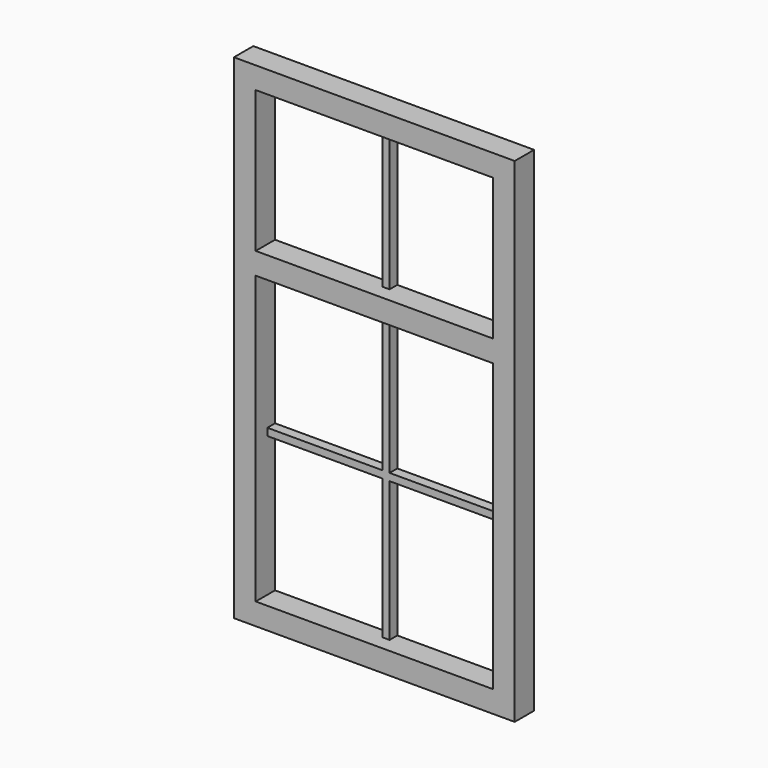
from build123d import *

# Parameters (mm, degrees)
F0_W     = 580
F0_H     = 1020
F0_W_2   = 490
F0_H_2   = 592.5
F0_H_3   = 292.5
F1_DEPTH = 50
F2_W     = 15
F2_H     = 292.5
F3_DEPTH = 20


with BuildPart() as f1:
    # F0 (on Front) → F1 (new body)
    with BuildSketch(Plane.XZ):
        with Locations((290, 510)):
            Rectangle(F0_W, F0_H)
        with Locations((290, 341.25)):
            Rectangle(F0_W_2, F0_H_2, mode=Mode.SUBTRACT)
        with Locations((290, 828.75)):
            Rectangle(F0_W_2, F0_H_3, mode=Mode.SUBTRACT)
    extrude(amount=F1_DEPTH)

    # F2 (on Front) → F3 (join)
    with BuildSketch(Plane.XZ):
        with Locations((290, 828.75)):
            Rectangle(F2_W, F2_H)
        Polygon((297.5, 637.5), (282.5, 637.5), (282.5, 348.75), (45, 348.75), (45, 333.75), (282.5, 333.75), (282.5, 45), (297.5, 45), (297.5, 333.75), (535, 333.75), (535, 348.75), (297.5, 348.75), align=None)
    extrude(amount=F3_DEPTH)


solid = f1.part
